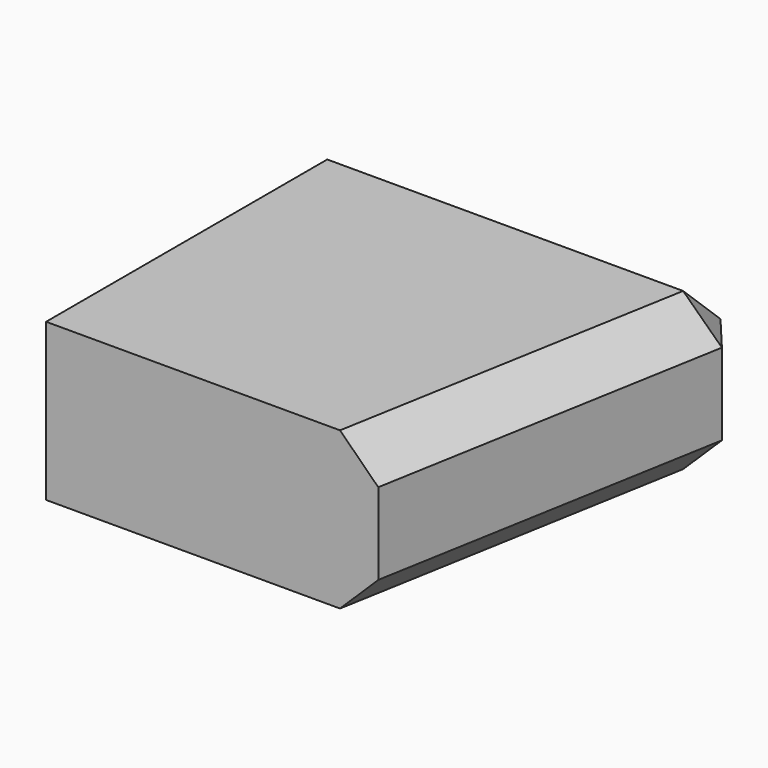
from build123d import *

# Parameters (mm, degrees)
BOX004_W               = 3.2
BOX004_H               = 5.1
BOX004_DEPTH           = 1.25
BOX004_PLACEMENT_ANGLE = 10
BOX_W                  = 3.2
BOX_H                  = 3.1
BOX_DEPTH              = 1.25
CHAMFER_SIZE           = 0.3


with BuildPart() as cut002:
    # Box004 → Box004 (new body)
    with BuildSketch(Plane.XY):
        with Locations((1.6, 2.55)):
            Rectangle(BOX004_W, BOX004_H)
    extrude(amount=BOX004_DEPTH)


with BuildPart() as cut002_1:
    # Box004 placement: moved
    add(cut002.part.moved(Location((-1.371499, 12.297067, 0))).rotate(Axis((-1.371499, 12.297067, 0), (0, 0, -1)), BOX004_PLACEMENT_ANGLE))


with BuildPart() as f_05mm_ext:
    # Box → Box (new body)
    with BuildSketch(Plane(origin=(-4, 12.4, 0), x_dir=(1, 0, 0), z_dir=(0, 0, 1))):
        with Locations((1.6, 1.55)):
            Rectangle(BOX_W, BOX_H)
    extrude(amount=BOX_DEPTH)

    # Cut: cut cut002
    add(cut002_1.part, mode=Mode.SUBTRACT)

    # Chamfer
    chamfer_edges = [f_05mm_ext.edges().sort_by_distance(p)[0] for p in [
        (-2.403368, 15.5, 1.25),
        (-1.080042, 13.95, 1.25),
        (-2.403368, 15.5, 0),
        (-0.806735, 15.5, 0.625),
        (-1.080042, 13.95, 0),
    ]]
    chamfer(chamfer_edges, length=CHAMFER_SIZE)


solid = f_05mm_ext.part
